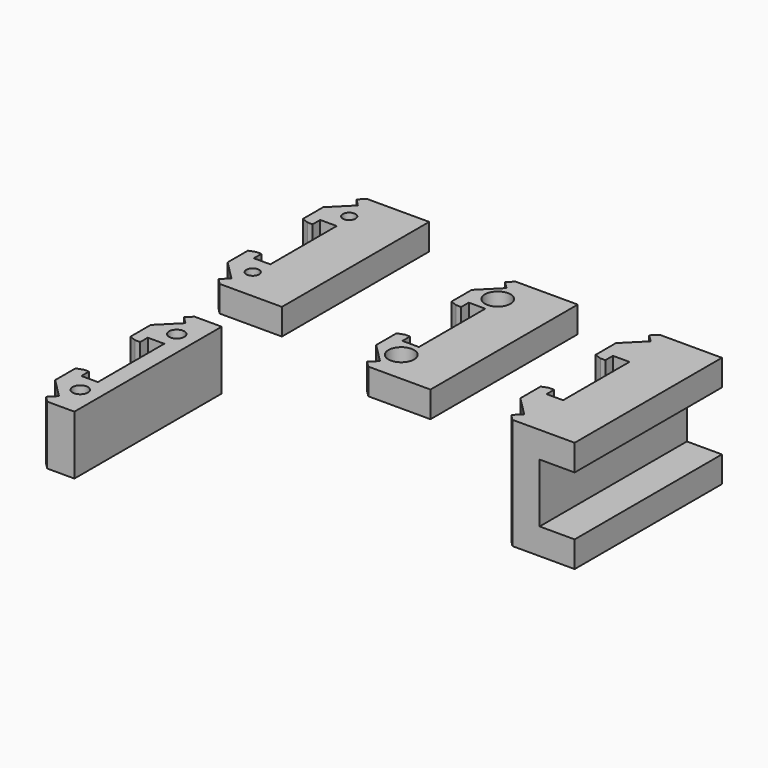
from build123d import *

# Parameters (mm, degrees)
F1_DEPTH = 21.9
F2_W     = 72.5
F2_H     = 23.2
F3_DEPTH = 13.8
F4_R     = 3
F4_R_2   = 2.5
F5_DEPTH = 5.15
F6_R     = 3
F7_DEPTH = 11.6
F8_R     = 5.05
F9_DEPTH = 6


with BuildPart() as f1:
    # F0 (on Top) → F1 (new body, symmetric)
    with BuildSketch(Plane.XY):
        Polygon((-12.25, -36.25), (12.25, -36.25), (12.25, 36.25), (-12.25, 36.25), (-14.548097, 33.951903), (-11.71967, 31.123476), (-19.321068, 23.522078), (-19.321068, 13.522078), (-16.734427, 12.588382), (-14.734427, 12.588382), (-14.734427, 13.322519), (-14.734427, 16.338382), (-8.234427, 16.338382), (-8.234427, 0), (-8.234427, -16.338382), (-14.734427, -16.338382), (-14.734427, -13.322519), (-14.734427, -12.588382), (-16.734427, -12.588382), (-19.321068, -13.522078), (-19.321068, -23.522078), (-11.71967, -31.123476), (-14.548097, -33.951903), align=None)
    extrude(amount=F1_DEPTH, both=True)

    # F2 (on face) → F3 (cut)
    with BuildSketch(Plane.YZ.offset(12.25)):
        Rectangle(F2_W, F2_H)
    extrude(amount=-F3_DEPTH, mode=Mode.SUBTRACT)


with BuildPart() as f5:
    # F4 (on Top) → F5 (new body, symmetric)
    with BuildSketch(Plane.XY):
        Polygon((-89.116569, -11.14886), (-64.616569, -11.14886), (-64.616569, 61.35114), (-89.116569, 61.35114), (-91.414667, 59.053043), (-88.586239, 56.224616), (-96.187637, 48.623218), (-96.187637, 38.623218), (-93.600996, 37.689523), (-91.600996, 37.689523), (-91.600996, 38.423659), (-91.600996, 41.439523), (-85.100996, 41.439523), (-85.100996, 25.10114), (-85.100996, 8.762758), (-91.600996, 8.762758), (-91.600996, 11.778621), (-91.600996, 12.512758), (-93.600996, 12.512758), (-96.187637, 11.579062), (-96.187637, 1.579062), (-88.586239, -6.022336), (-91.414667, -8.850763), align=None)
        with Locations((-86.116569, 1.35114)):
            Circle(F4_R, mode=Mode.SUBTRACT)
        with Locations((-86.116569, 48.85114)):
            Circle(F4_R, mode=Mode.SUBTRACT)
        Polygon((-159.191932, 3.304238), (-134.691932, 3.304238), (-134.691932, 75.804238), (-159.191932, 75.804238), (-161.490029, 73.506141), (-158.661602, 70.677714), (-166.263, 63.076316), (-166.263, 53.076316), (-163.676359, 52.142621), (-161.676359, 52.142621), (-161.676359, 52.876758), (-161.676359, 55.892621), (-155.176359, 55.892621), (-155.176359, 39.554238), (-155.176359, 23.215856), (-161.676359, 23.215856), (-161.676359, 26.231719), (-161.676359, 26.965856), (-163.676359, 26.965856), (-166.263, 26.032161), (-166.263, 16.032161), (-158.661602, 8.430763), (-161.490029, 5.602336), align=None)
        with Locations((-156.191932, 15.804238)):
            Circle(F4_R_2, mode=Mode.SUBTRACT)
        with Locations((-156.191932, 63.304238)):
            Circle(F4_R_2, mode=Mode.SUBTRACT)
    extrude(amount=F5_DEPTH, both=True)

    # F8 (on face) → F9 (cut)
    with BuildSketch(Plane.XY.offset(5.15)):
        with Locations((-86.116569, 48.85114)):
            Circle(F8_R)
        with Locations((-86.116569, 1.35114)):
            Circle(F8_R)
    extrude(amount=-F9_DEPTH, mode=Mode.SUBTRACT)


with BuildPart() as f7:
    # F6 (on Top) → F7 (new body, symmetric)
    with BuildSketch(Plane.XY):
        Polygon((-143.880438, -100.732935), (-133.180438, -100.732935), (-133.180438, -28.232935), (-143.880438, -28.232935), (-146.178535, -30.531032), (-143.350108, -33.359459), (-150.951506, -40.960857), (-150.951506, -50.960857), (-148.364865, -51.894552), (-146.364865, -51.894552), (-146.364865, -51.160416), (-146.364865, -48.144552), (-139.864865, -48.144552), (-139.864865, -64.482935), (-139.864865, -80.821317), (-146.364865, -80.821317), (-146.364865, -77.805454), (-146.364865, -77.071317), (-148.364865, -77.071317), (-150.951506, -78.005013), (-150.951506, -88.005013), (-143.350108, -95.60641), (-146.178535, -98.434838), align=None)
        with Locations((-140.880438, -88.232935)):
            Circle(F6_R, mode=Mode.SUBTRACT)
        with Locations((-140.880438, -40.732935)):
            Circle(F6_R, mode=Mode.SUBTRACT)
    extrude(amount=F7_DEPTH, both=True)


solid = Compound([f1.part, f5.part, f7.part])
